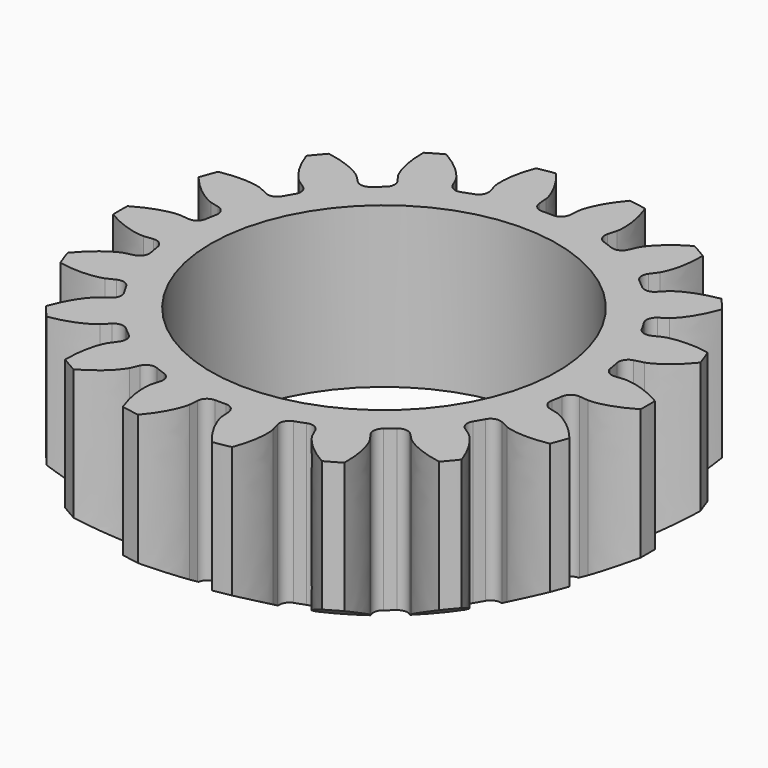
from build123d import *

# Parameters (mm, degrees)
PAD005_DEPTH            = 6
SKETCH010_R             = 6.5
POCKET006_DEPTH         = 10
BODY003_PLACEMENT_ANGLE = 180


with BuildPart() as part:
    # InvoluteGear002 → Pad005 (new body)
    with BuildSketch(Plane.XY):
        with BuildLine():
            Line((7.993275, -0.819533), (8.345693, -0.854957))
            add(Edge.make_bspline(
                [(8.345693, -0.854957), (8.420665, -0.85662), (8.720836, -0.852882), (9.247051, -0.721002), (9.894214, -0.33635)],
                knots=[0, 0, 0, 0, 0, 1, 1, 1, 1, 1], degree=4))
            ThreePointArc((9.894214, -0.33635), (9.899929, 0), (9.894214, 0.33635))
            add(Edge.make_bspline(
                [(9.894214, 0.33635), (9.247051, 0.721002), (8.720836, 0.852882), (8.420665, 0.85662), (8.345693, 0.854957)],
                knots=[0, 0, 0, 0, 0, 1, 1, 1, 1, 1], degree=4))
            Line((8.345693, 0.854957), (7.993275, 0.819533))
            ThreePointArc((7.993275, 0.819533), (7.727898, 0.895479), (7.588293, 1.133605))
            ThreePointArc((7.588293, 1.133605), (7.555937, 1.332316), (7.518379, 1.530109))
            ThreePointArc((7.518379, 1.530109), (7.568121, 1.801621), (7.791519, 1.963752))
            Line((7.791519, 1.963752), (8.134799, 2.050998))
            add(Edge.make_bspline(
                [(8.134799, 2.050998), (8.205818, 2.075077), (8.486608, 2.181255), (8.935983, 2.485158), (9.412558, 3.067955)],
                knots=[0, 0, 0, 0, 0, 1, 1, 1, 1, 1], degree=4))
            ThreePointArc((9.412558, 3.067955), (9.30289, 3.385975), (9.182481, 3.700086))
            add(Edge.make_bspline(
                [(9.182481, 3.700086), (8.442789, 3.840198), (7.903202, 3.784148), (7.619855, 3.684996), (7.549974, 3.657792)],
                knots=[0, 0, 0, 0, 0, 1, 1, 1, 1, 1], degree=4))
            Line((7.549974, 3.657792), (7.230925, 3.503971))
            ThreePointArc((7.230925, 3.503971), (6.955577, 3.484572), (6.742948, 3.660589))
            ThreePointArc((6.742948, 3.660589), (6.64458, 3.83625), (6.541637, 4.009269))
            ThreePointArc((6.541637, 4.009269), (6.495516, 4.28142), (6.64999, 4.510179))
            Line((6.64999, 4.510179), (6.942728, 4.709573))
            add(Edge.make_bspline(
                [(6.942728, 4.709573), (7.001228, 4.75649), (7.22877, 4.9523), (7.547103, 5.391571), (7.795609, 6.102219)],
                knots=[0, 0, 0, 0, 0, 1, 1, 1, 1, 1], degree=4))
            ThreePointArc((7.795609, 6.102219), (7.583786, 6.363552), (7.363206, 6.617537))
            add(Edge.make_bspline(
                [(7.363206, 6.617537), (6.620201, 6.496209), (6.132326, 6.258991), (5.899979, 6.068908), (5.843616, 6.019443)],
                knots=[0, 0, 0, 0, 0, 1, 1, 1, 1, 1], degree=4))
            Line((5.843616, 6.019443), (5.596418, 5.765777))
            ThreePointArc((5.596418, 5.765777), (5.34431, 5.653374), (5.084303, 5.746053))
            ThreePointArc((5.084303, 5.746053), (4.931788, 5.877476), (4.775877, 6.004853))
            ThreePointArc((4.775877, 6.004853), (4.639457, 6.244816), (4.706374, 6.512613))
            Line((4.706374, 6.512613), (4.913261, 6.800104))
            add(Edge.make_bspline(
                [(4.913261, 6.800104), (4.952187, 6.864199), (5.099035, 7.126024), (5.247932, 7.647681), (5.238395, 8.400465)],
                knots=[0, 0, 0, 0, 0, 1, 1, 1, 1, 1], degree=4))
            ThreePointArc((5.238395, 8.400465), (4.949965, 8.57359), (4.655819, 8.736816))
            add(Edge.make_bspline(
                [(4.655819, 8.736816), (3.99912, 8.368682), (3.6218, 7.978906), (3.468478, 7.720819), (3.432432, 7.655061)],
                knots=[0, 0, 0, 0, 0, 1, 1, 1, 1, 1], degree=4))
            Line((3.432432, 7.655061), (3.286901, 7.332146))
            ThreePointArc((3.286901, 7.332146), (3.088441, 7.140296), (2.812416, 7.138457))
            ThreePointArc((2.812416, 7.138457), (2.62415, 7.209792), (2.434076, 7.276162))
            ThreePointArc((2.434076, 7.276162), (2.223811, 7.454995), (2.195101, 7.729529))
            Line((2.195101, 7.729529), (2.291183, 8.070442))
            add(Edge.make_bspline(
                [(2.291183, 8.070442), (2.305839, 8.143985), (2.354282, 8.440245), (2.315782, 8.981367), (2.049353, 9.685492)],
                knots=[0, 0, 0, 0, 0, 1, 1, 1, 1, 1], degree=4))
            ThreePointArc((2.049353, 9.685492), (1.719105, 9.749527), (1.386872, 9.802305))
            add(Edge.make_bspline(
                [(1.386872, 9.802305), (0.895686, 9.231769), (0.674432, 8.736448), (0.618627, 8.441486), (0.607246, 8.367365)],
                knots=[0, 0, 0, 0, 0, 1, 1, 1, 1, 1], degree=4))
            Line((0.607246, 8.367365), (0.580935, 8.01415))
            ThreePointArc((0.580935, 8.01415), (0.46006, 7.765992), (0.201311, 7.669859))
            ThreePointArc((0.201311, 7.669859), (0, 7.6725), (-0.201311, 7.669859))
            ThreePointArc((-0.201311, 7.669859), (-0.46006, 7.765992), (-0.580935, 8.01415))
            Line((-0.580935, 8.01415), (-0.607246, 8.367365))
            add(Edge.make_bspline(
                [(-0.607246, 8.367365), (-0.618627, 8.441486), (-0.674432, 8.736448), (-0.895686, 9.231769), (-1.386872, 9.802305)],
                knots=[0, 0, 0, 0, 0, 1, 1, 1, 1, 1], degree=4))
            ThreePointArc((-1.386872, 9.802305), (-1.719105, 9.749527), (-2.049353, 9.685492))
            add(Edge.make_bspline(
                [(-2.049353, 9.685492), (-2.315782, 8.981367), (-2.354282, 8.440245), (-2.305839, 8.143985), (-2.291183, 8.070442)],
                knots=[0, 0, 0, 0, 0, 1, 1, 1, 1, 1], degree=4))
            Line((-2.291183, 8.070442), (-2.195101, 7.729529))
            ThreePointArc((-2.195101, 7.729529), (-2.223811, 7.454995), (-2.434076, 7.276162))
            ThreePointArc((-2.434076, 7.276162), (-2.62415, 7.209792), (-2.812416, 7.138457))
            ThreePointArc((-2.812416, 7.138457), (-3.088441, 7.140296), (-3.286901, 7.332146))
            Line((-3.286901, 7.332146), (-3.432432, 7.655061))
            add(Edge.make_bspline(
                [(-3.432432, 7.655061), (-3.468478, 7.720819), (-3.6218, 7.978906), (-3.99912, 8.368682), (-4.655819, 8.736816)],
                knots=[0, 0, 0, 0, 0, 1, 1, 1, 1, 1], degree=4))
            ThreePointArc((-4.655819, 8.736816), (-4.949965, 8.57359), (-5.238395, 8.400465))
            add(Edge.make_bspline(
                [(-5.238395, 8.400465), (-5.247932, 7.647681), (-5.099035, 7.126024), (-4.952187, 6.864199), (-4.913261, 6.800104)],
                knots=[0, 0, 0, 0, 0, 1, 1, 1, 1, 1], degree=4))
            Line((-4.913261, 6.800104), (-4.706374, 6.512613))
            ThreePointArc((-4.706374, 6.512613), (-4.639457, 6.244816), (-4.775877, 6.004853))
            ThreePointArc((-4.775877, 6.004853), (-4.931788, 5.877476), (-5.084303, 5.746053))
            ThreePointArc((-5.084303, 5.746053), (-5.34431, 5.653374), (-5.596418, 5.765777))
            Line((-5.596418, 5.765777), (-5.843616, 6.019443))
            add(Edge.make_bspline(
                [(-5.843616, 6.019443), (-5.899979, 6.068908), (-6.132326, 6.258991), (-6.620201, 6.496209), (-7.363206, 6.617537)],
                knots=[0, 0, 0, 0, 0, 1, 1, 1, 1, 1], degree=4))
            ThreePointArc((-7.363206, 6.617537), (-7.583786, 6.363552), (-7.795609, 6.102219))
            add(Edge.make_bspline(
                [(-7.795609, 6.102219), (-7.547103, 5.391571), (-7.22877, 4.9523), (-7.001228, 4.75649), (-6.942728, 4.709573)],
                knots=[0, 0, 0, 0, 0, 1, 1, 1, 1, 1], degree=4))
            Line((-6.942728, 4.709573), (-6.64999, 4.510179))
            ThreePointArc((-6.64999, 4.510179), (-6.495516, 4.28142), (-6.541637, 4.009269))
            ThreePointArc((-6.541637, 4.009269), (-6.64458, 3.83625), (-6.742948, 3.660589))
            ThreePointArc((-6.742948, 3.660589), (-6.955577, 3.484572), (-7.230925, 3.503971))
            Line((-7.230925, 3.503971), (-7.549974, 3.657792))
            add(Edge.make_bspline(
                [(-7.549974, 3.657792), (-7.619855, 3.684996), (-7.903202, 3.784148), (-8.442789, 3.840198), (-9.182481, 3.700086)],
                knots=[0, 0, 0, 0, 0, 1, 1, 1, 1, 1], degree=4))
            ThreePointArc((-9.182481, 3.700086), (-9.30289, 3.385975), (-9.412558, 3.067955))
            add(Edge.make_bspline(
                [(-9.412558, 3.067955), (-8.935983, 2.485158), (-8.486608, 2.181255), (-8.205818, 2.075077), (-8.134799, 2.050998)],
                knots=[0, 0, 0, 0, 0, 1, 1, 1, 1, 1], degree=4))
            Line((-8.134799, 2.050998), (-7.791519, 1.963752))
            ThreePointArc((-7.791519, 1.963752), (-7.568121, 1.801621), (-7.518379, 1.530109))
            ThreePointArc((-7.518379, 1.530109), (-7.555937, 1.332316), (-7.588293, 1.133605))
            ThreePointArc((-7.588293, 1.133605), (-7.727898, 0.895479), (-7.993275, 0.819533))
            Line((-7.993275, 0.819533), (-8.345693, 0.854957))
            add(Edge.make_bspline(
                [(-8.345693, 0.854957), (-8.420665, 0.85662), (-8.720836, 0.852882), (-9.247051, 0.721002), (-9.894214, 0.33635)],
                knots=[0, 0, 0, 0, 0, 1, 1, 1, 1, 1], degree=4))
            ThreePointArc((-9.894214, 0.33635), (-9.899929, 0), (-9.894214, -0.33635))
            add(Edge.make_bspline(
                [(-9.894214, -0.33635), (-9.247051, -0.721002), (-8.720836, -0.852882), (-8.420665, -0.85662), (-8.345693, -0.854957)],
                knots=[0, 0, 0, 0, 0, 1, 1, 1, 1, 1], degree=4))
            Line((-8.345693, -0.854957), (-7.993275, -0.819533))
            ThreePointArc((-7.993275, -0.819533), (-7.727898, -0.895479), (-7.588293, -1.133605))
            ThreePointArc((-7.588293, -1.133605), (-7.555937, -1.332316), (-7.518379, -1.530109))
            ThreePointArc((-7.518379, -1.530109), (-7.568121, -1.801621), (-7.791519, -1.963752))
            Line((-7.791519, -1.963752), (-8.134799, -2.050998))
            add(Edge.make_bspline(
                [(-8.134799, -2.050998), (-8.205818, -2.075077), (-8.486608, -2.181255), (-8.935983, -2.485158), (-9.412558, -3.067955)],
                knots=[0, 0, 0, 0, 0, 1, 1, 1, 1, 1], degree=4))
            ThreePointArc((-9.412558, -3.067955), (-9.30289, -3.385975), (-9.182481, -3.700086))
            add(Edge.make_bspline(
                [(-9.182481, -3.700086), (-8.442789, -3.840198), (-7.903202, -3.784148), (-7.619855, -3.684996), (-7.549974, -3.657792)],
                knots=[0, 0, 0, 0, 0, 1, 1, 1, 1, 1], degree=4))
            Line((-7.549974, -3.657792), (-7.230925, -3.503971))
            ThreePointArc((-7.230925, -3.503971), (-6.955577, -3.484572), (-6.742948, -3.660589))
            ThreePointArc((-6.742948, -3.660589), (-6.64458, -3.83625), (-6.541637, -4.009269))
            ThreePointArc((-6.541637, -4.009269), (-6.495516, -4.28142), (-6.64999, -4.510179))
            Line((-6.64999, -4.510179), (-6.942728, -4.709573))
            add(Edge.make_bspline(
                [(-6.942728, -4.709573), (-7.001228, -4.75649), (-7.22877, -4.9523), (-7.547103, -5.391571), (-7.795609, -6.102219)],
                knots=[0, 0, 0, 0, 0, 1, 1, 1, 1, 1], degree=4))
            ThreePointArc((-7.795609, -6.102219), (-7.583786, -6.363552), (-7.363206, -6.617537))
            add(Edge.make_bspline(
                [(-7.363206, -6.617537), (-6.620201, -6.496209), (-6.132326, -6.258991), (-5.899979, -6.068908), (-5.843616, -6.019443)],
                knots=[0, 0, 0, 0, 0, 1, 1, 1, 1, 1], degree=4))
            Line((-5.843616, -6.019443), (-5.596418, -5.765777))
            ThreePointArc((-5.596418, -5.765777), (-5.34431, -5.653374), (-5.084303, -5.746053))
            ThreePointArc((-5.084303, -5.746053), (-4.931788, -5.877476), (-4.775877, -6.004853))
            ThreePointArc((-4.775877, -6.004853), (-4.639457, -6.244816), (-4.706374, -6.512613))
            Line((-4.706374, -6.512613), (-4.913261, -6.800104))
            add(Edge.make_bspline(
                [(-4.913261, -6.800104), (-4.952187, -6.864199), (-5.099035, -7.126024), (-5.247932, -7.647681), (-5.238395, -8.400465)],
                knots=[0, 0, 0, 0, 0, 1, 1, 1, 1, 1], degree=4))
            ThreePointArc((-5.238395, -8.400465), (-4.949965, -8.57359), (-4.655819, -8.736816))
            add(Edge.make_bspline(
                [(-4.655819, -8.736816), (-3.99912, -8.368682), (-3.6218, -7.978906), (-3.468478, -7.720819), (-3.432432, -7.655061)],
                knots=[0, 0, 0, 0, 0, 1, 1, 1, 1, 1], degree=4))
            Line((-3.432432, -7.655061), (-3.286901, -7.332146))
            ThreePointArc((-3.286901, -7.332146), (-3.088441, -7.140296), (-2.812416, -7.138457))
            ThreePointArc((-2.812416, -7.138457), (-2.62415, -7.209792), (-2.434076, -7.276162))
            ThreePointArc((-2.434076, -7.276162), (-2.223811, -7.454995), (-2.195101, -7.729529))
            Line((-2.195101, -7.729529), (-2.291183, -8.070442))
            add(Edge.make_bspline(
                [(-2.291183, -8.070442), (-2.305839, -8.143985), (-2.354282, -8.440245), (-2.315782, -8.981367), (-2.049353, -9.685492)],
                knots=[0, 0, 0, 0, 0, 1, 1, 1, 1, 1], degree=4))
            ThreePointArc((-2.049353, -9.685492), (-1.719105, -9.749527), (-1.386872, -9.802305))
            add(Edge.make_bspline(
                [(-1.386872, -9.802305), (-0.895686, -9.231769), (-0.674432, -8.736448), (-0.618627, -8.441486), (-0.607246, -8.367365)],
                knots=[0, 0, 0, 0, 0, 1, 1, 1, 1, 1], degree=4))
            Line((-0.607246, -8.367365), (-0.580935, -8.01415))
            ThreePointArc((-0.580935, -8.01415), (-0.46006, -7.765992), (-0.201311, -7.669859))
            ThreePointArc((-0.201311, -7.669859), (0, -7.6725), (0.201311, -7.669859))
            ThreePointArc((0.201311, -7.669859), (0.46006, -7.765992), (0.580935, -8.01415))
            Line((0.580935, -8.01415), (0.607246, -8.367365))
            add(Edge.make_bspline(
                [(0.607246, -8.367365), (0.618627, -8.441486), (0.674432, -8.736448), (0.895686, -9.231769), (1.386872, -9.802305)],
                knots=[0, 0, 0, 0, 0, 1, 1, 1, 1, 1], degree=4))
            ThreePointArc((1.386872, -9.802305), (1.719105, -9.749527), (2.049353, -9.685492))
            add(Edge.make_bspline(
                [(2.049353, -9.685492), (2.315782, -8.981367), (2.354282, -8.440245), (2.305839, -8.143985), (2.291183, -8.070442)],
                knots=[0, 0, 0, 0, 0, 1, 1, 1, 1, 1], degree=4))
            Line((2.291183, -8.070442), (2.195101, -7.729529))
            ThreePointArc((2.195101, -7.729529), (2.223811, -7.454995), (2.434076, -7.276162))
            ThreePointArc((2.434076, -7.276162), (2.62415, -7.209792), (2.812416, -7.138457))
            ThreePointArc((2.812416, -7.138457), (3.088441, -7.140296), (3.286901, -7.332146))
            Line((3.286901, -7.332146), (3.432432, -7.655061))
            add(Edge.make_bspline(
                [(3.432432, -7.655061), (3.468478, -7.720819), (3.6218, -7.978906), (3.99912, -8.368682), (4.655819, -8.736816)],
                knots=[0, 0, 0, 0, 0, 1, 1, 1, 1, 1], degree=4))
            ThreePointArc((4.655819, -8.736816), (4.949965, -8.57359), (5.238395, -8.400465))
            add(Edge.make_bspline(
                [(5.238395, -8.400465), (5.247932, -7.647681), (5.099035, -7.126024), (4.952187, -6.864199), (4.913261, -6.800104)],
                knots=[0, 0, 0, 0, 0, 1, 1, 1, 1, 1], degree=4))
            Line((4.913261, -6.800104), (4.706374, -6.512613))
            ThreePointArc((4.706374, -6.512613), (4.639457, -6.244816), (4.775877, -6.004853))
            ThreePointArc((4.775877, -6.004853), (4.931788, -5.877476), (5.084303, -5.746053))
            ThreePointArc((5.084303, -5.746053), (5.34431, -5.653374), (5.596418, -5.765777))
            Line((5.596418, -5.765777), (5.843616, -6.019443))
            add(Edge.make_bspline(
                [(5.843616, -6.019443), (5.899979, -6.068908), (6.132326, -6.258991), (6.620201, -6.496209), (7.363206, -6.617537)],
                knots=[0, 0, 0, 0, 0, 1, 1, 1, 1, 1], degree=4))
            ThreePointArc((7.363206, -6.617537), (7.583786, -6.363552), (7.795609, -6.102219))
            add(Edge.make_bspline(
                [(7.795609, -6.102219), (7.547103, -5.391571), (7.22877, -4.9523), (7.001228, -4.75649), (6.942728, -4.709573)],
                knots=[0, 0, 0, 0, 0, 1, 1, 1, 1, 1], degree=4))
            Line((6.942728, -4.709573), (6.64999, -4.510179))
            ThreePointArc((6.64999, -4.510179), (6.495516, -4.28142), (6.541637, -4.009269))
            ThreePointArc((6.541637, -4.009269), (6.64458, -3.83625), (6.742948, -3.660589))
            ThreePointArc((6.742948, -3.660589), (6.955577, -3.484572), (7.230925, -3.503971))
            Line((7.230925, -3.503971), (7.549974, -3.657792))
            add(Edge.make_bspline(
                [(7.549974, -3.657792), (7.619855, -3.684996), (7.903202, -3.784148), (8.442789, -3.840198), (9.182481, -3.700086)],
                knots=[0, 0, 0, 0, 0, 1, 1, 1, 1, 1], degree=4))
            ThreePointArc((9.182481, -3.700086), (9.30289, -3.385975), (9.412558, -3.067955))
            add(Edge.make_bspline(
                [(9.412558, -3.067955), (8.935983, -2.485158), (8.486608, -2.181255), (8.205818, -2.075077), (8.134799, -2.050998)],
                knots=[0, 0, 0, 0, 0, 1, 1, 1, 1, 1], degree=4))
            Line((8.134799, -2.050998), (7.791519, -1.963752))
            ThreePointArc((7.791519, -1.963752), (7.568121, -1.801621), (7.518379, -1.530109))
            ThreePointArc((7.518379, -1.530109), (7.555937, -1.332316), (7.588293, -1.133605))
            ThreePointArc((7.588293, -1.133605), (7.727898, -0.895479), (7.993275, -0.819533))
        make_face()
    extrude(amount=PAD005_DEPTH)

    # Sketch010 (on Face146 of Pad005) → Pocket006 (cut)
    with BuildSketch(Plane.XY.offset(6)):
        Circle(SKETCH010_R)
    extrude(amount=-POCKET006_DEPTH, mode=Mode.SUBTRACT)

    # Sketch028 → Groove004 (revolve, cut)
    with BuildSketch(Plane.XZ):
        Polygon((10.25, 6), (10.25, 4.700962), (8, 6), (9, 6), align=None)
    revolve(axis=Axis((0, 0, 0), (0, 0, 1)), mode=Mode.SUBTRACT)


with BuildPart() as part_1:
    # Body003 placement: moved
    add(part.part.moved(Location((0, 0, 12))).rotate(Axis((0, 0, 12), (0, 1, 0)), BODY003_PLACEMENT_ANGLE))


solid = part_1.part
